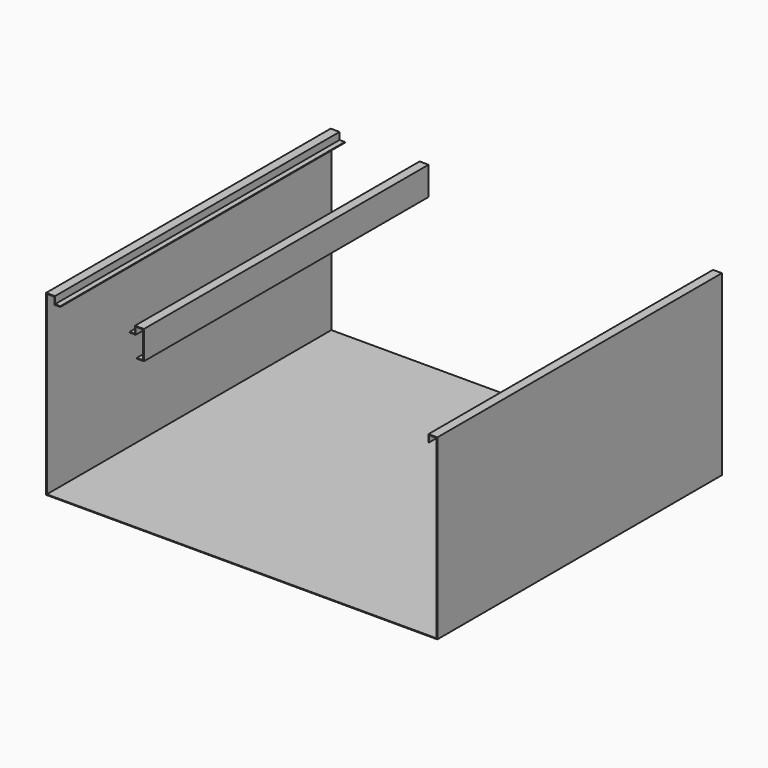
from build123d import *

# Parameters (mm, degrees)
F0_W     = 2
F0_H     = 2
F0_W_2   = 21
F0_H_2   = 496
F0_W_3   = 1096
F0_H_3   = 18
F0_H_4   = 76
F0_W_4   = 18
F1_DEPTH = 1000


with BuildPart() as f1:
    # F0 (on Front) → F1 (new body)
    with BuildSketch(Plane.XZ):
        Polygon((-35.521391, 411.348926), (-35.521391, 413.348926), (-50.521391, 413.348926), (-50.521391, 431.348926), (-52.521391, 431.348926), (-52.521391, 411.348926), (-50.521391, 411.348926), align=None)
        with Locations((-51.521391, 432.348926)):
            Rectangle(F0_W, F0_H)
        with Locations((-63.021391, 432.348926)):
            Rectangle(F0_W_2, F0_H)
        with Locations((-74.521391, 183.348926)):
            Rectangle(F0_W, F0_H_2)
        with Locations((-74.521391, 432.348926)):
            Rectangle(F0_W, F0_H)
        with Locations((474.478609, -65.651074)):
            Rectangle(F0_W_3, F0_H)
        with Locations((-74.521391, -65.651074)):
            Rectangle(F0_W, F0_H)
        with Locations((1023.478609, 183.348926)):
            Rectangle(F0_W, F0_H_2)
        with Locations((1023.478609, -65.651074)):
            Rectangle(F0_W, F0_H)
        with Locations((1011.978609, 432.348926)):
            Rectangle(F0_W_2, F0_H)
        with Locations((1023.478609, 432.348926)):
            Rectangle(F0_W, F0_H)
        with Locations((1000.478609, 422.348926)):
            Rectangle(F0_W, F0_H_3)
        with Locations((1000.478609, 432.348926)):
            Rectangle(F0_W, F0_H)
        with Locations((198.478609, 432.348926)):
            Rectangle(F0_W, F0_H)
        with Locations((198.478609, 393.348926)):
            Rectangle(F0_W, F0_H_4)
        with Locations((186.978609, 432.348926)):
            Rectangle(F0_W_2, F0_H)
        with Locations((198.478609, 354.348926)):
            Rectangle(F0_W, F0_H)
        with Locations((175.478609, 432.348926)):
            Rectangle(F0_W, F0_H)
        with Locations((188.478609, 354.348926)):
            Rectangle(F0_W_4, F0_H)
        Polygon((176.478609, 411.348926), (176.478609, 431.348926), (174.478609, 431.348926), (174.478609, 413.348926), (159.478609, 413.348926), (159.478609, 411.348926), align=None)
    extrude(amount=F1_DEPTH)


solid = f1.part
